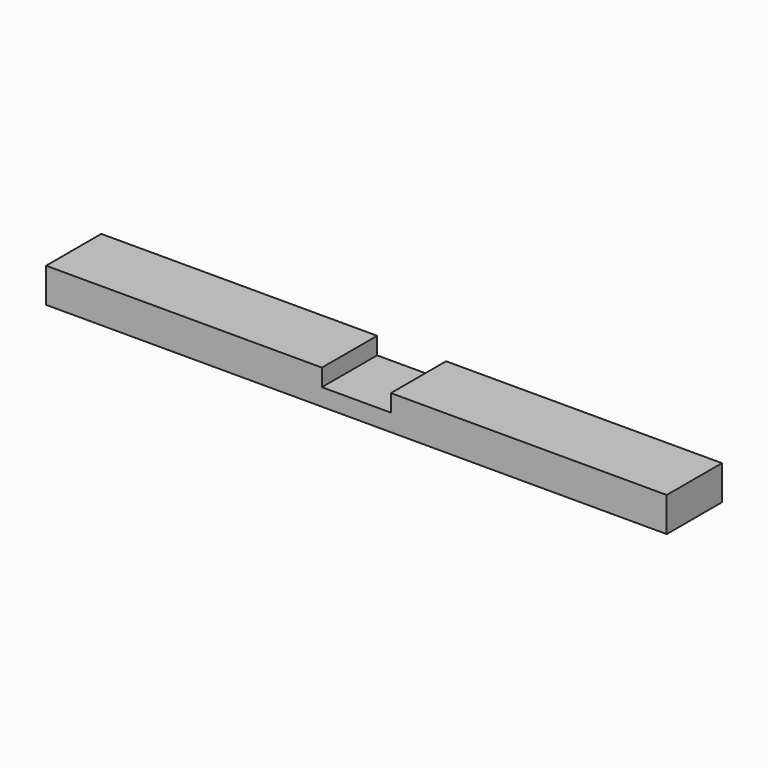
from build123d import *

# Parameters (mm, degrees)
F0_W     = 914.4
F0_H     = 50.8
F1_DEPTH = 50.8
F2_W     = 101.6
F2_H     = 101.6
F3_DEPTH = 25.4


with BuildPart() as f1:
    # F0 (on Front) → F1 (new body, symmetric)
    with BuildSketch(Plane.XZ):
        Rectangle(F0_W, F0_H)
    extrude(amount=F1_DEPTH, both=True)

    # F2 (on face) → F3 (cut)
    with BuildSketch(Plane.XY.offset(25.4)):
        Rectangle(F2_W, F2_H)
    extrude(amount=-F3_DEPTH, mode=Mode.SUBTRACT)


solid = f1.part
